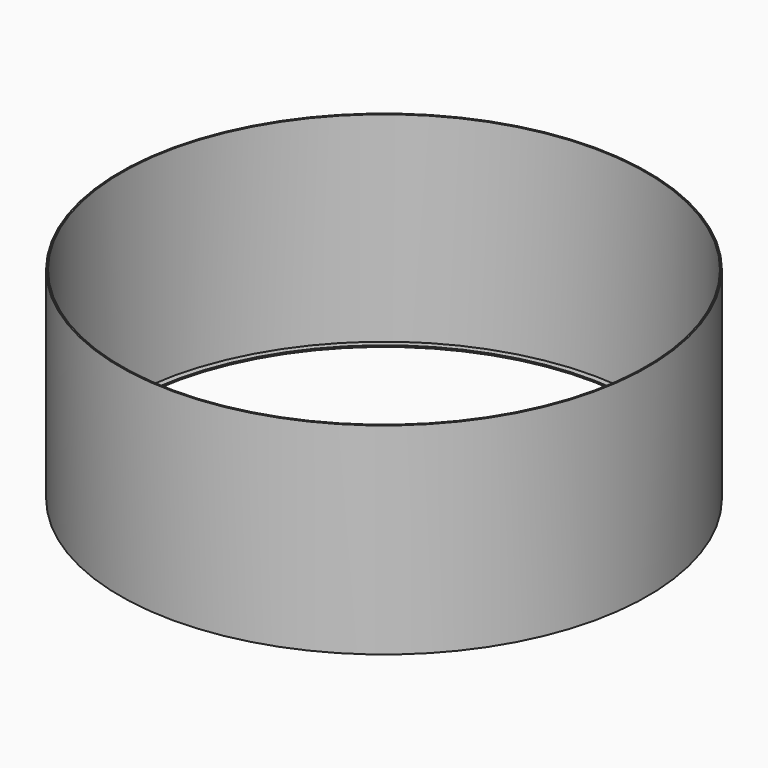
from build123d import *

# Parameters (mm, degrees)
F0_W     = 100
F0_H     = 50
F2_T     = -2.5
F3_R     = 432.257955
F4_DEPTH = 2.501


with BuildPart() as f1:
    # F0 (on Right) → F1 (revolve)
    with BuildSketch(Plane.YZ):
        Polygon((-220, 0), (0, 0), (0, 340), (-445, 340), (-445, 0), (-320, 0), (-320, 50), (-220, 50), align=None)
        with Locations((-270, 25)):
            Rectangle(F0_W, F0_H)
    revolve(axis=Axis((0, 0, 170), (0, 0, 1)))

    # F2
    f2_openings = [f1.faces().sort_by_distance(p)[0] for p in [
        (0, 0, 340),
    ]]
    offset(amount=F2_T, openings=f2_openings)

    # F3 (on face) → F4 (cut, through all)
    with BuildSketch(Plane.XY.offset(2.5)):
        Circle(F3_R)
    extrude(amount=-F4_DEPTH, mode=Mode.SUBTRACT)


solid = f1.part
